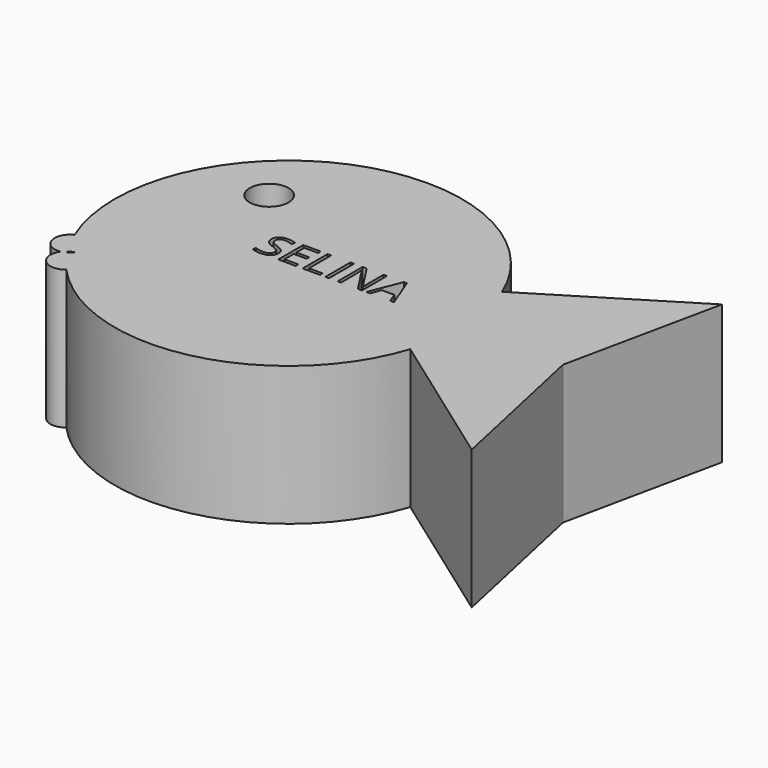
from build123d import *

# Parameters (mm, degrees)
F0_R     = 1.4016050998
F0_W     = 0.2615615931
F0_H     = 2.2506119
F1_DEPTH = 10


with BuildPart() as f1:
    # F0 (on Top) → F1 (new body)
    with BuildSketch(Plane.XY):
        with BuildLine():
            ThreePointArc((15.6497281832, -3.8894937424), (16.1141499311, -1.9693410977), (16.2702568807, 0))
            ThreePointArc((16.2702568807, 0), (16.0296169984, 2.440919807), (15.31696256, 4.7878583893))
            ThreePointArc((15.31696256, 4.7878583893), (-1.0286524493, 11.5421171906), (-7.7672612448, -4.8099558734))
            ThreePointArc((-7.7672612448, -4.8099558734), (-6.7093134723, -4.877150661), (-6.1988012008, -5.8062070906))
            ThreePointArc((-6.1988012008, -5.8062070906), (-6.2518108787, -6.1436650731), (-6.4057336913, -6.4486170097))
            ThreePointArc((-6.4057336913, -6.4486170097), (-5.4828783131, -6.684585858), (-5.0770177625, -7.5463402081))
            ThreePointArc((-5.0770177625, -7.5463402081), (-5.1829933682, -8.0214071787), (-5.4808256952, -8.4063946597))
            ThreePointArc((-5.4808256952, -8.4063946597), (6.3832446914, -12.2238412417), (15.6497281832, -3.8894937424))
        make_face()
        with Locations((-2.2391737439, 5.7797180489)):
            Circle(F0_R, mode=Mode.SUBTRACT)
        with BuildLine():
            add(Edge.make_bspline(
                [(2.4462237992, 0.9743292489), (2.5792212194, 0.8295098358), (2.5792212194, 0.598980974)],
                knots=[0, 0, 0, 1, 1, 1], degree=2))
            add(Edge.make_bspline(
                [(2.5792212194, 0.598980974), (2.5792212194, 0.3019534022), (2.3637161403, 0.1354603354)],
                knots=[0, 0, 0, 1, 1, 1], degree=2))
            add(Edge.make_bspline(
                [(2.3637161403, 0.1354603354), (2.1482110613, -0.0310327314), (1.7787737829, -0.0310327314)],
                knots=[0, 0, 0, 1, 1, 1], degree=2))
            add(Edge.make_bspline(
                [(1.7787737829, -0.0310327314), (1.3787963561, -0.0310327314), (1.1630449855, 0.0724097066)],
                knots=[0, 0, 0, 1, 1, 1], degree=2))
            Line((1.1630449855, 0.0724097066), (1.1630449855, 0.324612222))
            add(Edge.make_bspline(
                [(1.1630449855, 0.324612222), (1.3019534022, 0.2664874235), (1.4649983877, 0.2324991939)],
                knots=[0, 0, 0, 1, 1, 1], degree=2))
            add(Edge.make_bspline(
                [(1.4649983877, 0.2324991939), (1.6280433733, 0.1985109643), (1.7881328606, 0.1985109643)],
                knots=[0, 0, 0, 1, 1, 1], degree=2))
            add(Edge.make_bspline(
                [(1.7881328606, 0.1985109643), (2.0496944537, 0.1985109643), (2.1821992909, 0.2977664464)],
                knots=[0, 0, 0, 1, 1, 1], degree=2))
            add(Edge.make_bspline(
                [(2.1821992909, 0.2977664464), (2.3147041281, 0.3970219285), (2.3147041281, 0.5743518222)],
                knots=[0, 0, 0, 1, 1, 1], degree=2))
            add(Edge.make_bspline(
                [(2.3147041281, 0.5743518222), (2.3147041281, 0.6910940021), (2.2676624479, 0.7657203324)],
                knots=[0, 0, 0, 1, 1, 1], degree=2))
            add(Edge.make_bspline(
                [(2.2676624479, 0.7657203324), (2.2206207678, 0.8403466626), (2.1105284589, 0.903643583)],
                knots=[0, 0, 0, 1, 1, 1], degree=2))
            add(Edge.make_bspline(
                [(2.1105284589, 0.903643583), (2.0004361499, 0.9669405033), (1.7758182846, 1.0467389555)],
                knots=[0, 0, 0, 1, 1, 1], degree=2))
            add(Edge.make_bspline(
                [(1.7758182846, 1.0467389555), (1.4620428895, 1.1590478881), (1.3273214287, 1.3129800874)],
                knots=[0, 0, 0, 1, 1, 1], degree=2))
            add(Edge.make_bspline(
                [(1.3273214287, 1.3129800874), (1.1925999678, 1.4669122868), (1.1925999678, 1.7146815548)],
                knots=[0, 0, 0, 1, 1, 1], degree=2))
            add(Edge.make_bspline(
                [(1.1925999678, 1.7146815548), (1.1925999678, 1.9747653988), (1.3879091423, 2.1286975981)],
                knots=[0, 0, 0, 1, 1, 1], degree=2))
            add(Edge.make_bspline(
                [(1.3879091423, 2.1286975981), (1.5832183168, 2.2826297975), (1.9053676236, 2.2826297975)],
                knots=[0, 0, 0, 1, 1, 1], degree=2))
            add(Edge.make_bspline(
                [(1.9053676236, 2.2826297975), (2.2408166724, 2.2826297975), (2.52257417, 2.159484038)],
                knots=[0, 0, 0, 1, 1, 1], degree=2))
            Line((2.52257417, 2.159484038), (2.4408053858, 1.9319106745))
            add(Edge.make_bspline(
                [(2.4408053858, 1.9319106745), (2.1620033863, 2.0486528545), (1.8989640441, 2.0486528545)],
                knots=[0, 0, 0, 1, 1, 1], degree=2))
            add(Edge.make_bspline(
                [(1.8989640441, 2.0486528545), (1.6910940021, 2.0486528545), (1.5741055306, 1.9594953246)],
                knots=[0, 0, 0, 1, 1, 1], degree=2))
            add(Edge.make_bspline(
                [(1.5741055306, 1.9594953246), (1.4571170591, 1.8703377948), (1.4571170591, 1.7117260566)],
                knots=[0, 0, 0, 1, 1, 1], degree=2))
            add(Edge.make_bspline(
                [(1.4571170591, 1.7117260566), (1.4571170591, 1.5949838766), (1.500218075, 1.5201112549)],
                knots=[0, 0, 0, 1, 1, 1], degree=2))
            add(Edge.make_bspline(
                [(1.500218075, 1.5201112549), (1.5433190908, 1.4452386331), (1.6457763626, 1.3829268788)],
                knots=[0, 0, 0, 1, 1, 1], degree=2))
            add(Edge.make_bspline(
                [(1.6457763626, 1.3829268788), (1.7482336345, 1.3206151245), (1.9590591747, 1.2452499197)],
                knots=[0, 0, 0, 1, 1, 1], degree=2))
            add(Edge.make_bspline(
                [(1.9590591747, 1.2452499197), (2.3132263789, 1.119148662), (2.4462237992, 0.9743292489)],
                knots=[0, 0, 0, 1, 1, 1], degree=2))
        make_face(mode=Mode.SUBTRACT)
        Polygon((4.2943953572, 0.233976943), (4.2943953572, 0), (3.0397863598, 0), (3.0397863598, 2.2506119), (4.2943953572, 2.2506119), (4.2943953572, 2.0181127061), (3.3013479529, 2.0181127061), (3.3013479529, 1.2930304744), (4.2343002266, 1.2930304744), (4.2343002266, 1.0620090296), (3.3013479529, 1.0620090296), (3.3013479529, 0.233976943), align=None, mode=Mode.SUBTRACT)
        Polygon((6.047498389, 0), (4.7928893916, 0), (4.7928893916, 2.2506119), (5.0544509847, 2.2506119), (5.0544509847, 0.2369324412), (6.047498389, 0.2369324412), align=None, mode=Mode.SUBTRACT)
        with Locations((6.5600310399, 1.12530595)):
            Rectangle(F0_W, F0_H, mode=Mode.SUBTRACT)
        with BuildLine():
            Line((9.066047245, 2.2506119), (9.066047245, 0))
            Line((9.066047245, 0), (8.7675419241, 0))
            Line((8.7675419241, 0), (7.5375620785, 1.8885633672))
            Line((7.5375620785, 1.8885633672), (7.5252475026, 1.8885633672))
            add(Edge.make_bspline(
                [(7.5252475026, 1.8885633672), (7.5498766545, 1.5560698166), (7.5498766545, 1.2792381493)],
                knots=[0, 0, 0, 1, 1, 1], degree=2))
            Line((7.5498766545, 1.2792381493), (7.5498766545, 0))
            Line((7.5498766545, 0), (7.3080183829, 0))
            Line((7.3080183829, 0), (7.3080183829, 2.2506119))
            Line((7.3080183829, 2.2506119), (7.6035682056, 2.2506119))
            Line((7.6035682056, 2.2506119), (8.8305925529, 0.3694372784))
            Line((8.8305925529, 0.3694372784), (8.8429071289, 0.3694372784))
            add(Edge.make_bspline(
                [(8.8429071289, 0.3694372784), (8.8399516307, 0.4108142536), (8.8291148038, 0.6364172849)],
                knots=[0, 0, 0, 1, 1, 1], degree=2))
            add(Edge.make_bspline(
                [(8.8291148038, 0.6364172849), (8.818277977, 0.8620203163), (8.8212334752, 0.9590591747)],
                knots=[0, 0, 0, 1, 1, 1], degree=2))
            Line((8.8212334752, 0.9590591747), (8.8212334752, 2.2506119))
            Line((8.8212334752, 2.2506119), (9.066047245, 2.2506119))
        make_face(mode=Mode.SUBTRACT)
        Polygon((11.3703506962, 0), (11.0994300253, 0), (10.8191502768, 0.715723154), (9.9172307345, 0.715723154), (9.6403990672, 0), (9.3753893928, 0), (10.2649943592, 2.2599709777), (10.4851789771, 2.2599709777), align=None, mode=Mode.SUBTRACT)
        with BuildLine():
            ThreePointArc((15.31696256, 4.7878583893), (16.0296169984, 2.440919807), (16.2702568807, 0))
            ThreePointArc((16.2702568807, 0), (16.1141499311, -1.9693410977), (15.6497281832, -3.8894937424))
            Line((15.6497281832, -3.8894937424), (25.9802397341, -11.2746227533))
            Line((25.9802397341, -11.2746227533), (23.5263779759, 0))
            Line((23.5263779759, 0), (25.9188935161, 11.3009084016))
            Line((25.9188935161, 11.3009084016), (15.31696256, 4.7878583893))
        make_face()
        with BuildLine():
            ThreePointArc((-6.1988012008, -5.8062070906), (-6.7093134723, -4.877150661), (-7.7672612448, -4.8099558734))
            ThreePointArc((-7.7672612448, -4.8099558734), (-7.3353744108, -5.7371555337), (-6.8291260147, -6.6259401022))
            ThreePointArc((-6.8291260147, -6.6259401022), (-6.6266300861, -6.5153112644), (-6.4057336913, -6.4486170097))
            ThreePointArc((-6.4057336913, -6.4486170097), (-6.2518108787, -6.1436650731), (-6.1988012008, -5.8062070906))
        make_face()
        with BuildLine():
            ThreePointArc((-6.8291260147, -6.6259401022), (-7.3353744108, -5.7371555337), (-7.7672612448, -4.8099558734))
            ThreePointArc((-7.7672612448, -4.8099558734), (-8.3471428725, -6.1433715274), (-7.0984216701, -6.8883247926))
            ThreePointArc((-7.0984216701, -6.8883247926), (-6.9748850194, -6.7457286125), (-6.8291260147, -6.6259401022))
        make_face()
        with BuildLine():
            ThreePointArc((-7.0984216701, -6.8883247926), (-6.9597521838, -8.3614224908), (-5.4808256952, -8.4063946597))
            ThreePointArc((-5.4808256952, -8.4063946597), (-6.1476298332, -7.608253619), (-6.7457763686, -6.7574436512))
            ThreePointArc((-6.7457763686, -6.7574436512), (-6.9164663705, -6.8380607946), (-7.0984216701, -6.8883247926))
        make_face()
        with BuildLine():
            ThreePointArc((-6.7457763686, -6.7574436512), (-6.1476298332, -7.608253619), (-5.4808256952, -8.4063946597))
            ThreePointArc((-5.4808256952, -8.4063946597), (-5.1829933682, -8.0214071787), (-5.0770177625, -7.5463402081))
            ThreePointArc((-5.0770177625, -7.5463402081), (-5.4828783131, -6.684585858), (-6.4057336913, -6.4486170097))
            ThreePointArc((-6.4057336913, -6.4486170097), (-6.5594644952, -6.6209675039), (-6.7457763686, -6.7574436512))
        make_face()
        with BuildLine():
            ThreePointArc((-6.7457763686, -6.7574436512), (-6.7876559356, -6.6918216476), (-6.8291260147, -6.6259401022))
            ThreePointArc((-6.8291260147, -6.6259401022), (-6.9748850194, -6.7457286125), (-7.0984216701, -6.8883247926))
            ThreePointArc((-7.0984216701, -6.8883247926), (-6.9164663705, -6.8380607946), (-6.7457763686, -6.7574436512))
        make_face()
    extrude(amount=F1_DEPTH)


solid = f1.part
